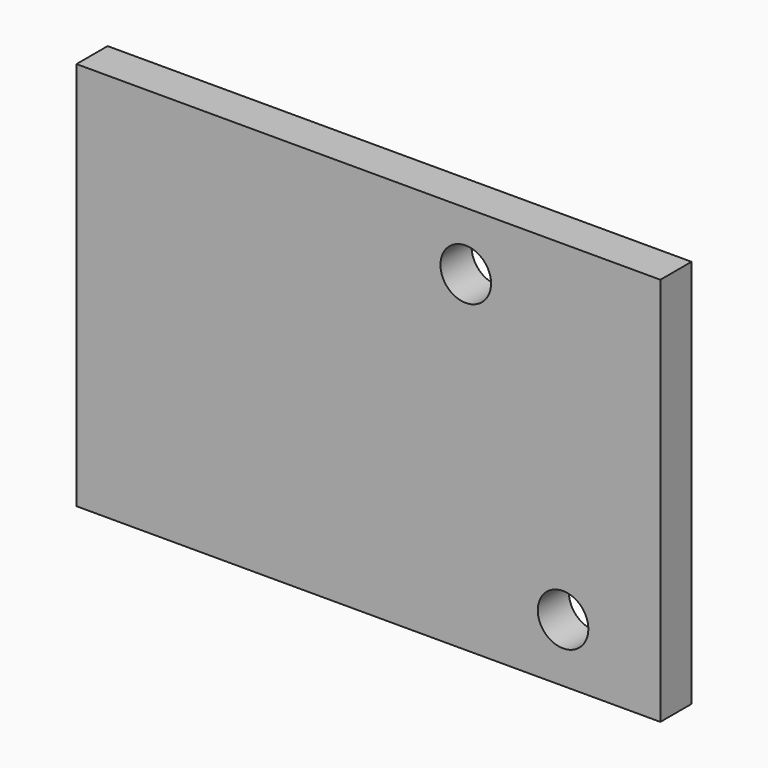
from build123d import *

# Parameters (mm, degrees)
F0_W     = 150
F0_H     = 100
F0_R     = 6.5
F1_DEPTH = 5


with BuildPart() as f1:
    # F0 (on Front) → F1 (new body, symmetric)
    with BuildSketch(Plane.XZ):
        Rectangle(F0_W, F0_H)
        with Locations((50, -35)):
            Circle(F0_R, mode=Mode.SUBTRACT)
        with Locations((25, 35)):
            Circle(F0_R, mode=Mode.SUBTRACT)
    extrude(amount=F1_DEPTH, both=True)


solid = f1.part
